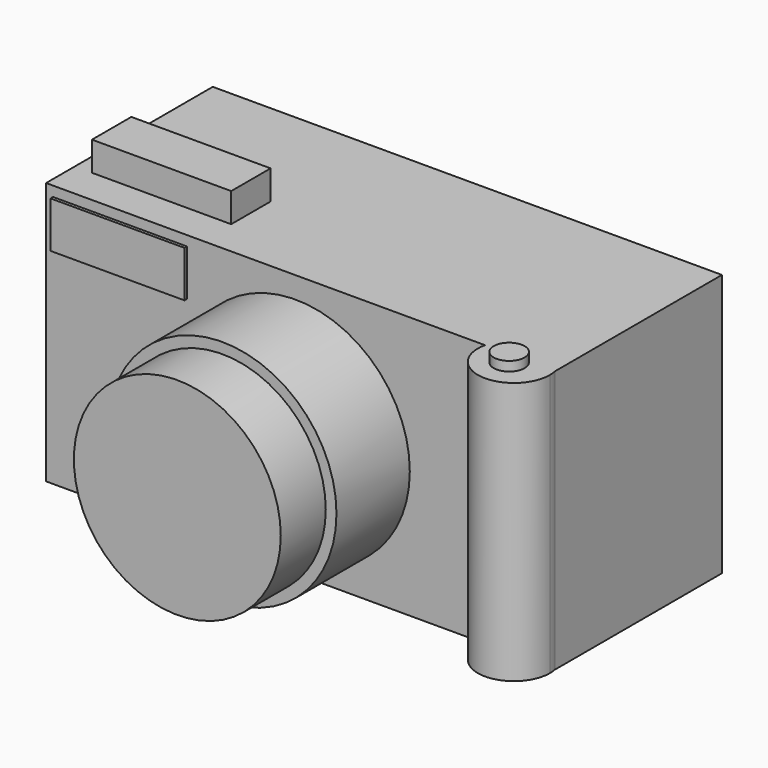
from build123d import *

# Parameters (mm, degrees)
F1_R      = 26.2655065646
F2_DEPTH  = 25.4
F3_DEPTH  = 25.4
F4_DEPTH  = 25.4
F5_R      = 27.8330469694
F6_DEPTH  = 22.352
F8_W      = 33.9538175613
F8_H      = 12.0044872165
F9_DEPTH  = 7.112
F11_R     = 3.0284549087
F13_DEPTH = 1.016
F14_R     = 8.9450781304
F14_R_2   = 3.0284549087
F15_DEPTH = 0.762
F16_R     = 25.222843128
F17_DEPTH = 0.762
F19_R     = 3.7698908718
F20_DEPTH = 2.286
F21_W     = 32.6801389456
F21_H     = 11.2690133974
F22_DEPTH = 0.762
F24_DEPTH = 64.008
F25_DEPTH = 12.954
F10_W     = 77.0918577909
F10_H     = 47.0512080938
F26_DEPTH = 1.016
F27_W     = 15.3993144631
F27_H     = 17.6025833935
F27_W_2   = 9.2281326652
F27_H_2   = 11.5900784731
F28_DEPTH = 2.54


with BuildPart() as f2:
    # F1 (on face) → F2 (new body)
    with BuildSketch(Plane.XZ):
        with Locations((-2.629437251, -9.2030279338)):
            Circle(F1_R)
    extrude(amount=F2_DEPTH)

    # F0 (on Front) → F3 (join)
    with BuildSketch(Plane.XZ):
        Polygon((-50.7105626166, 23.4771128744), (-60.85267663, 23.4771128744), (-60.85267663, -40.5684486032), (63.2942989469, -40.5684486032), (63.2942989469, 23.4771128744), (-24.228380993, 23.4771128744), align=None)
    extrude(amount=-F3_DEPTH)

    # F4 (add): a face of the model
    f4_faces = [f2.faces().sort_by_distance(p)[0] for p in [
        (1.2208111584, 0, 22.0801767452),
    ]]
    extrude(f4_faces, amount=F4_DEPTH)

    # F5 (on face) → F6 (join)
    with BuildSketch(Plane.XZ.offset(25.4)):
        with Locations((0, -9.5786619931)):
            Circle(F5_R)
    extrude(amount=F6_DEPTH)

    # F8 (on face) → F9 (join)
    with BuildSketch(Plane.XY.offset(23.4771128744)):
        with Locations((-39.6948745474, -10.6415767223)):
            Rectangle(F8_W, F8_H)
    extrude(amount=F9_DEPTH)

    # F11 (on face) → F13 (join)
    with BuildSketch(Plane(origin=(0, 25.4, 0), x_dir=(-1, 0, 0), z_dir=(0, 1, 0))):
        with Locations((41.3197204471, -14.4619019702)):
            Circle(F11_R)
    extrude(amount=F13_DEPTH)

    # F14 (on face) → F15 (join)
    with BuildSketch(Plane(origin=(0, 25.4, 0), x_dir=(-1, 0, 0), z_dir=(0, 1, 0))):
        with Locations((41.3197204471, -14.4619019702)):
            Circle(F14_R)
        with Locations((41.3197204471, -14.4619019702)):
            Circle(F14_R_2, mode=Mode.SUBTRACT)
    extrude(amount=-F15_DEPTH)

    # F16 (on face) → F17 (join)
    with BuildSketch(Plane.XZ.offset(47.752)):
        with Locations((0, -9.5786619931)):
            Circle(F16_R)
    extrude(amount=F17_DEPTH)

    # F19 (on face) → F20 (join)
    with BuildSketch(Plane.XY.offset(23.4771128744)):
        with Locations((54.2063601315, -28.089210391)):
            Circle(F19_R)
    extrude(amount=F20_DEPTH)

    # F21 (on face) → F22 (join)
    with BuildSketch(Plane.XZ.offset(25.4)):
        with Locations((-42.822252959, 15.4009857215)):
            Rectangle(F21_W, F21_H)
        with Locations((-42.822252959, 15.4009857215)):
            Rectangle(F21_W, F21_H)
    extrude(amount=F22_DEPTH)

    # F23 (on face) → F24 (join)
    with BuildSketch(Plane.XY.offset(23.4771128744)):
        with BuildLine():
            ThreePointArc((46.1644789676, -25.4), (53.7686719478, -36.0181838323), (63.4942040761, -27.3013263941))
            ThreePointArc((63.4942040761, -27.3013263941), (63.4418971886, -26.3449585915), (63.2856005331, -25.4))
            Line((63.2856005331, -25.4), (46.1644789676, -25.4))
        make_face()
        with BuildLine():
            Line((46.1644789676, -25.4), (63.2856005331, -25.4))
            ThreePointArc((63.2856005331, -25.4), (54.7250397503, -18.5321620683), (46.1644789676, -25.4))
        make_face()
    extrude(amount=-F24_DEPTH)

    # F25 (add): a face of the model
    f25_faces = [f2.faces().sort_by_distance(p)[0] for p in [
        (0, -48.514, -9.5786619931),
    ]]
    extrude(f25_faces, amount=F25_DEPTH)

    # F10 (on face) → F26 (join)
    with BuildSketch(Plane(origin=(0, 25.4, 0), x_dir=(-1, 0, 0), z_dir=(0, 1, 0))):
        with Locations((-17.513666302, -9.6154874191)):
            Rectangle(F10_W, F10_H)
    extrude(amount=F26_DEPTH)

    # F27 (on face) → F28 (join)
    with BuildSketch(Plane(origin=(0, 25.4, 0), x_dir=(-1, 0, 0), z_dir=(0, 1, 0))):
        with Locations((41.0268343985, 12.4612255022)):
            Rectangle(F27_W, F27_H)
        with Locations((41.0268343985, 12.4612255022)):
            Rectangle(F27_W_2, F27_H_2, mode=Mode.SUBTRACT)
    extrude(amount=F28_DEPTH)


solid = f2.part
